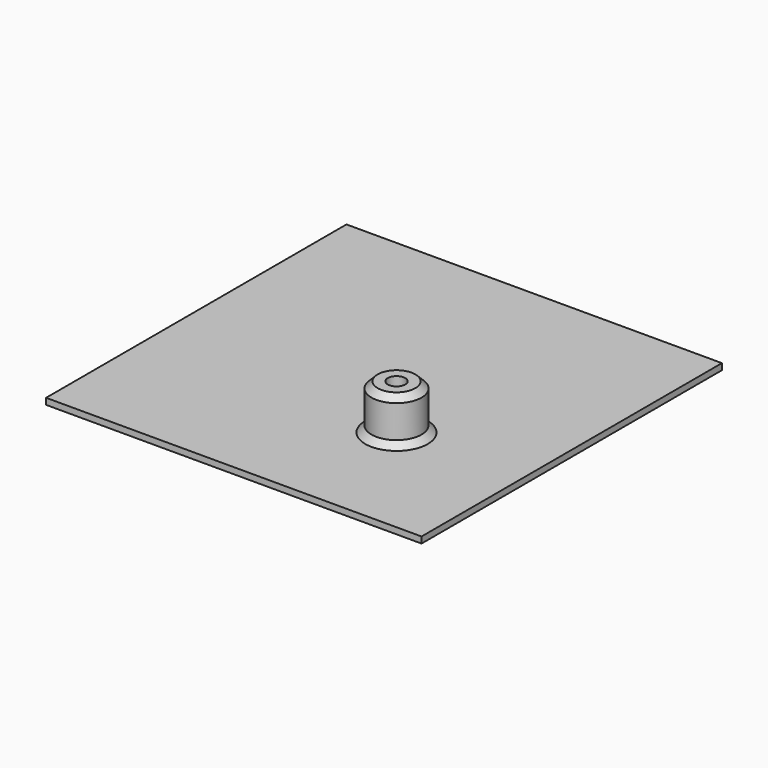
from build123d import *

# Parameters (mm, degrees)
F0_W     = 7620
F0_H     = 7620
F1_DEPTH = 127
F2_R     = 508
F3_DEPTH = 914.4
F4_SIZE  = 127
F5_R     = 177.8
F6_DEPTH = 1041.401


with BuildPart() as f1:
    # F0 (on Top) → F1 (new body)
    with BuildSketch(Plane.XY):
        Rectangle(F0_W, F0_H)
    extrude(amount=F1_DEPTH)

    # F2 (on face) → F3 (join)
    with BuildSketch(Plane.XY.offset(127)):
        with Locations((1270, -1270)):
            Circle(F2_R)
    extrude(amount=F3_DEPTH)

    # F4
    f4_edges = [f1.edges().sort_by_distance(p)[0] for p in [
        (762, -1270, 1041.4),
        (762, -1270, 127),
    ]]
    chamfer(f4_edges, length=F4_SIZE)

    # F5 (on face) → F6 (cut, through all)
    with BuildSketch(Plane.XY.offset(1041.4)):
        with Locations((1270, -1270)):
            Circle(F5_R)
    extrude(amount=-F6_DEPTH, mode=Mode.SUBTRACT)


solid = f1.part
